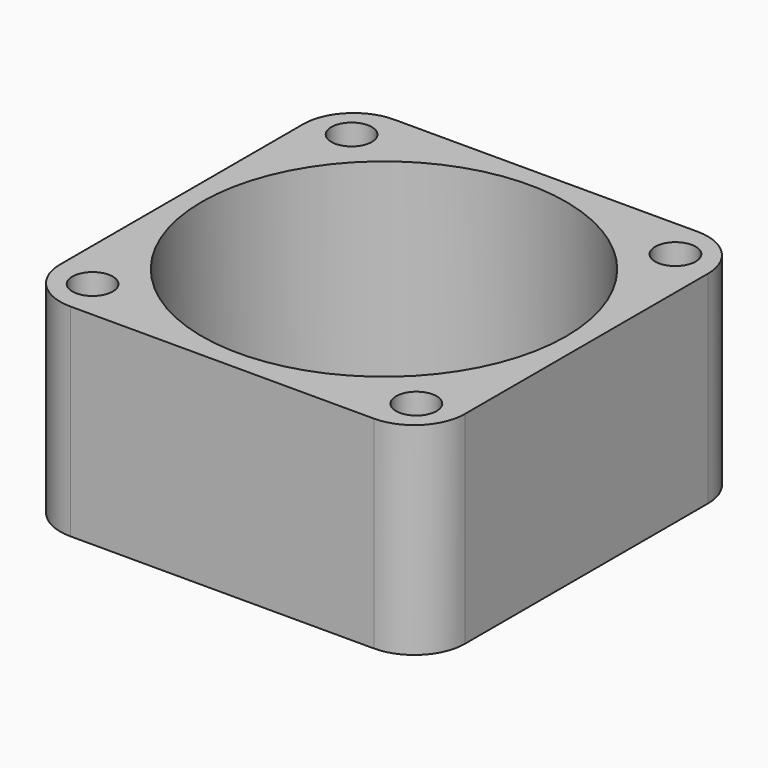
from build123d import *

# Parameters (mm, degrees)
F0_W     = 40
F0_H     = 40
F1_DEPTH = 20
F2_R     = 2
F3_DEPTH = 25
F4_R     = 18
F5_DEPTH = 25
F6_R     = 5


with BuildPart() as f1:
    # F0 (on Top) → F1 (new body)
    with BuildSketch(Plane.XY):
        with Locations((20, 20)):
            Rectangle(F0_W, F0_H)
    extrude(amount=F1_DEPTH)

    # F2 (on face) → F3 (cut)
    with BuildSketch(Plane.XY.offset(20)):
        with Locations((4, 36)):
            Circle(F2_R)
        with Locations((36, 36)):
            Circle(F2_R)
        with Locations((36, 4)):
            Circle(F2_R)
        with Locations((4, 4)):
            Circle(F2_R)
    extrude(amount=-F3_DEPTH, mode=Mode.SUBTRACT)

    # F4 (on face) → F5 (cut)
    with BuildSketch(Plane.XY.offset(20)):
        with Locations((20, 20)):
            Circle(F4_R)
    extrude(amount=-F5_DEPTH, mode=Mode.SUBTRACT)

    # F6
    f6_edges = [f1.edges().sort_by_distance(p)[0] for p in [
        (0, 0, 10),
        (0, 40, 10),
        (40, 40, 10),
        (40, 0, 10),
    ]]
    fillet(f6_edges, radius=F6_R)


solid = f1.part
